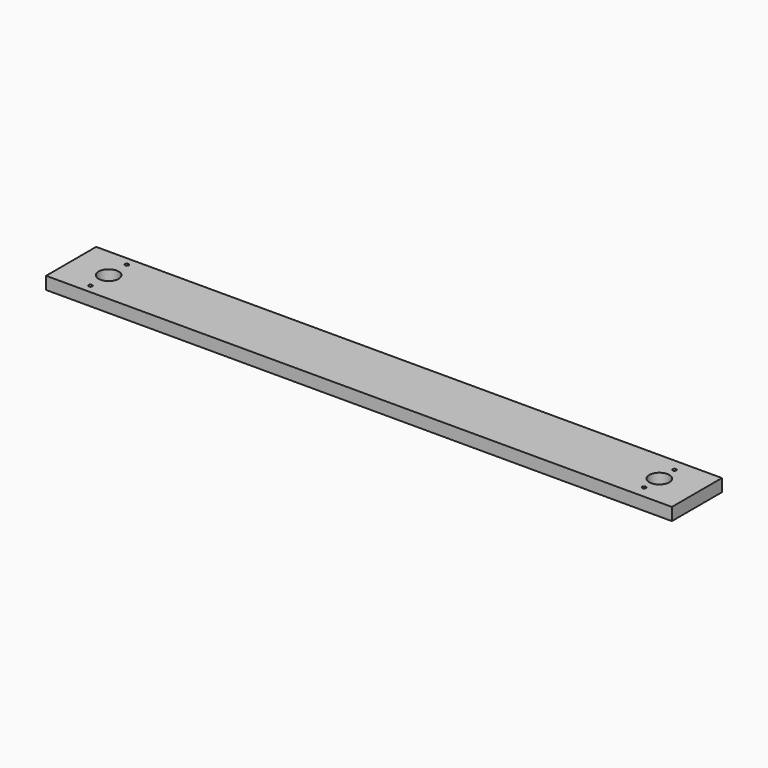
from build123d import *

# Parameters (mm, degrees)
F0_W     = 250
F0_H     = 25
F1_DEPTH = 5
F3_D     = 1.4732
F4_D     = 1.4732
F5_D     = 1.4732
F6_D     = 8


with BuildPart() as f1:
    # F0 (on Top) → F1 (new body)
    with BuildSketch(Plane.XY):
        with Locations((11.708578, -66.683836)):
            Rectangle(F0_W, F0_H)
    extrude(amount=F1_DEPTH)

    # F3 (through all)
    with Locations(Plane.XY.offset(5)):
        with Locations((-98.291422, -57.590636)):
            Hole(F3_D / 2)

    # F4 (through all)
    with Locations(Plane.XY.offset(5)):
        with Locations((-98.291422, -75.777036)):
            Hole(F4_D / 2)

    # F5 (through all)
    with Locations(Plane.XY.offset(5)):
        with Locations((121.708578, -59.063836), (121.708578, -74.303836)):
            Hole(F5_D / 2)

    # F6 (through all)
    with Locations(Plane.XY.offset(5)):
        with Locations((-98.291422, -66.683836), (121.708578, -66.683836)):
            Hole(F6_D / 2)


solid = f1.part
